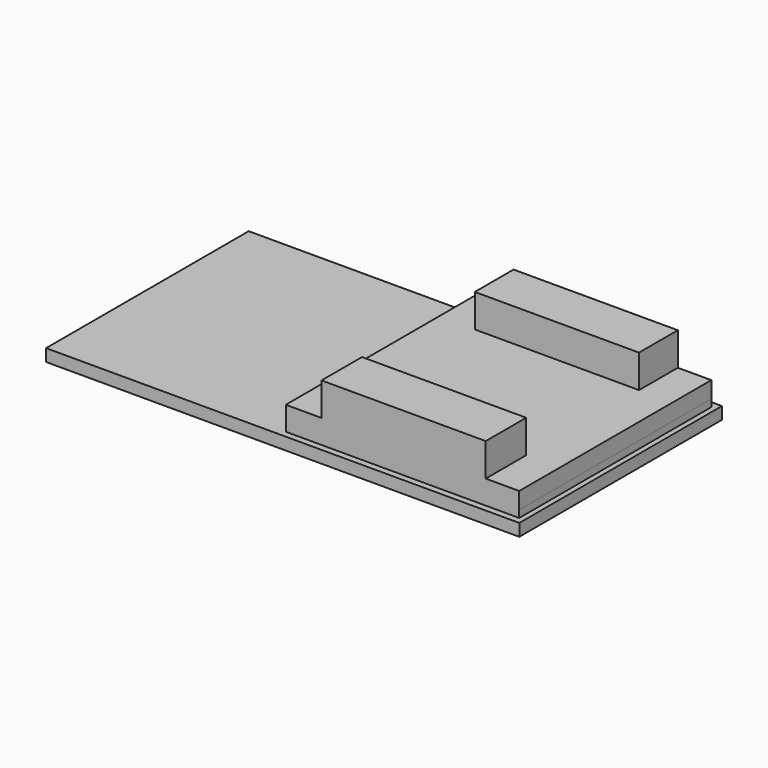
from build123d import *

# Parameters (mm, degrees)
F1_W      = 179.506913
F1_H      = 184.607744
F2_DEPTH  = 14.986
F2_FACE_W = 179.506912
F2_FACE_H = 184.607744
F3_DEPTH  = 12.7
F4_W      = 126.293604
F4_H      = 37.260275
F4_H_2    = 38.89557
F5_DEPTH  = 25.4
F0_W      = 363.899439
F0_H      = 194.727853
F6_DEPTH  = 9.398


with BuildPart() as f2:
    # F1 (on face) → F2 (new body)
    with BuildSketch(Plane.XY):
        with Locations((89.753456, 3.837615)):
            Rectangle(F1_W, F1_H)
    extrude(amount=F2_DEPTH)

    # F2_face (on face) → F3 (join, symmetric)
    with BuildSketch(Plane(origin=(89.753456, 3.837615, 14.986), x_dir=(1, 0, 0), z_dir=(0, 0, 1))):
        Rectangle(F2_FACE_W, F2_FACE_H)
    extrude(amount=F3_DEPTH, both=True)

    # F4 (on face) → F5 (join)
    with BuildSketch(Plane.XY.offset(27.686)):
        with Locations((90.598954, 77.511349)):
            Rectangle(F4_W, F4_H)
        with Locations((90.598954, -69.018472)):
            Rectangle(F4_W, F4_H_2)
    extrude(amount=F5_DEPTH)

    # F0 (on Top) → F6 (join)
    with BuildSketch(Plane.XY):
        with Locations((1.610697, 3.912329)):
            Rectangle(F0_W, F0_H)
    extrude(amount=F6_DEPTH)


solid = f2.part
